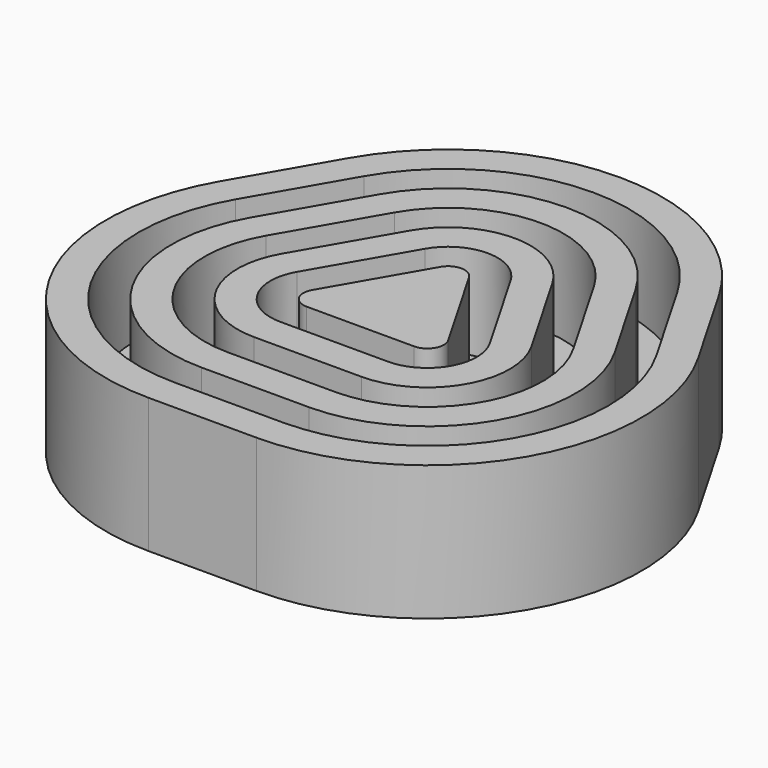
from build123d import *

# Parameters (mm, degrees)
F1_DEPTH = 57
F3_DEPTH = 25


with BuildPart() as f1:
    # F0 (on Top) → F1 (new body)
    with BuildSketch(Plane.XY):
        with BuildLine():
            ThreePointArc((8.6602540378, 32.4022103819), (0, 37.4022103819), (-8.6602540378, 32.4022103819))
            Line((-8.6602540378, 32.4022103819), (-41.3397459622, -24.2003299966))
            ThreePointArc((-41.3397459622, -24.2003299966), (-41.3397459622, -34.2003299966), (-32.6794919243, -39.2003299966))
            Line((-32.6794919243, -39.2003299966), (32.6794919243, -39.2003299966))
            ThreePointArc((32.6794919243, -39.2003299966), (41.3397459622, -34.2003299966), (41.3397459622, -24.2003299966))
            Line((41.3397459622, -24.2003299966), (8.6602540378, 32.4022103819))
        make_face()
    extrude(amount=F1_DEPTH)



with BuildPart() as f1b:
    # F0 (on Top) → F1, piece 2 (new body)
    with BuildSketch(Plane.XY):
        with BuildLine():
            Line((75.9807621135, -4.2003299966), (43.3012701892, 52.4022103819))
            ThreePointArc((43.3012701892, 52.4022103819), (0, 77.4022103819), (-43.3012701892, 52.4022103819))
            Line((-43.3012701892, 52.4022103819), (-75.9807621135, -4.2003299966))
            ThreePointArc((-75.9807621135, -4.2003299966), (-75.9807621135, -54.2003299966), (-32.6794919243, -79.2003299966))
            Line((-32.6794919243, -79.2003299966), (32.6794919243, -79.2003299966))
            ThreePointArc((32.6794919243, -79.2003299966), (75.9807621135, -54.2003299966), (75.9807621135, -4.2003299966))
        make_face()
        with BuildLine():
            ThreePointArc((-25.9807621135, 42.4022103819), (0, 57.4022103819), (25.9807621135, 42.4022103819))
            Line((25.9807621135, 42.4022103819), (58.6602540378, -14.2003299966))
            ThreePointArc((58.6602540378, -14.2003299966), (58.6602540378, -44.2003299966), (32.6794919243, -59.2003299966))
            Line((32.6794919243, -59.2003299966), (-32.6794919243, -59.2003299966))
            ThreePointArc((-32.6794919243, -59.2003299966), (-58.6602540378, -44.2003299966), (-58.6602540378, -14.2003299966))
            Line((-58.6602540378, -14.2003299966), (-25.9807621135, 42.4022103819))
        make_face(mode=Mode.SUBTRACT)
    extrude(amount=F1_DEPTH)


with BuildPart() as f1c:
    # F0 (on Top) → F1, piece 3 (new body)
    with BuildSketch(Plane.XY):
        with BuildLine():
            Line((110.6217782649, 15.7996700034), (77.9422863406, 72.4022103819))
            ThreePointArc((77.9422863406, 72.4022103819), (0, 117.4022103819), (-77.9422863406, 72.4022103819))
            Line((-77.9422863406, 72.4022103819), (-110.6217782649, 15.7996700034))
            ThreePointArc((-110.6217782649, 15.7996700034), (-110.6217782649, -74.2003299966), (-32.6794919243, -119.2003299966))
            Line((-32.6794919243, -119.2003299966), (32.6794919243, -119.2003299966))
            ThreePointArc((32.6794919243, -119.2003299966), (110.6217782649, -74.2003299966), (110.6217782649, 15.7996700034))
        make_face()
        with BuildLine():
            ThreePointArc((-60.6217782649, 62.4022103819), (0, 97.4022103819), (60.6217782649, 62.4022103819))
            Line((60.6217782649, 62.4022103819), (93.3012701892, 5.7996700034))
            ThreePointArc((93.3012701892, 5.7996700034), (93.3012701892, -64.2003299966), (32.6794919243, -99.2003299966))
            Line((32.6794919243, -99.2003299966), (-32.6794919243, -99.2003299966))
            ThreePointArc((-32.6794919243, -99.2003299966), (-93.3012701892, -64.2003299966), (-93.3012701892, 5.7996700034))
            Line((-93.3012701892, 5.7996700034), (-60.6217782649, 62.4022103819))
        make_face(mode=Mode.SUBTRACT)
    extrude(amount=F1_DEPTH)


with BuildPart() as f1d:
    # F0 (on Top) → F1, piece 4 (new body)
    with BuildSketch(Plane.XY):
        with BuildLine():
            Line((145.2627944163, 35.7996700034), (112.583302492, 92.4022103819))
            ThreePointArc((112.583302492, 92.4022103819), (0, 157.4022103819), (-112.583302492, 92.4022103819))
            Line((-112.583302492, 92.4022103819), (-145.2627944163, 35.7996700034))
            ThreePointArc((-145.2627944163, 35.7996700034), (-145.2627944163, -94.2003299966), (-32.6794919243, -159.2003299966))
            Line((-32.6794919243, -159.2003299966), (32.6794919243, -159.2003299966))
            ThreePointArc((32.6794919243, -159.2003299966), (145.2627944163, -94.2003299966), (145.2627944163, 35.7996700034))
        make_face()
        with BuildLine():
            ThreePointArc((-95.2627944163, 82.4022103819), (0, 137.4022103819), (95.2627944163, 82.4022103819))
            Line((95.2627944163, 82.4022103819), (127.9422863406, 25.7996700034))
            ThreePointArc((127.9422863406, 25.7996700034), (127.9422863406, -84.2003299966), (32.6794919243, -139.2003299966))
            Line((32.6794919243, -139.2003299966), (-32.6794919243, -139.2003299966))
            ThreePointArc((-32.6794919243, -139.2003299966), (-127.9422863406, -84.2003299966), (-127.9422863406, 25.7996700034))
            Line((-127.9422863406, 25.7996700034), (-95.2627944163, 82.4022103819))
        make_face(mode=Mode.SUBTRACT)
    extrude(amount=F1_DEPTH)


with BuildPart() as f1_1:
    add(f1.part)

    add(f1b.part)  # F3 merges F1b

    add(f1c.part)  # F3 merges F1c

    add(f1d.part)  # F3 merges F1d
    # F2 (on face) → F3 (join)
    with BuildSketch(Plane(origin=(0, 0, 0), x_dir=(1, 0, 0), z_dir=(0, 0, -1))):
        with BuildLine():
            ThreePointArc((-32.6794919243, 159.2003299966), (-145.2627944163, 94.2003299966), (-145.2627944163, -35.7996700034))
            Line((-145.2627944163, -35.7996700034), (-112.583302492, -92.4022103819))
            ThreePointArc((-112.583302492, -92.4022103819), (0, -157.4022103819), (112.583302492, -92.4022103819))
            Line((112.583302492, -92.4022103819), (145.2627944163, -35.7996700034))
            ThreePointArc((145.2627944163, -35.7996700034), (145.2627944163, 94.2003299966), (32.6794919243, 159.2003299966))
            Line((32.6794919243, 159.2003299966), (-32.6794919243, 159.2003299966))
        make_face()
    extrude(amount=F3_DEPTH)


solid = f1_1.part
